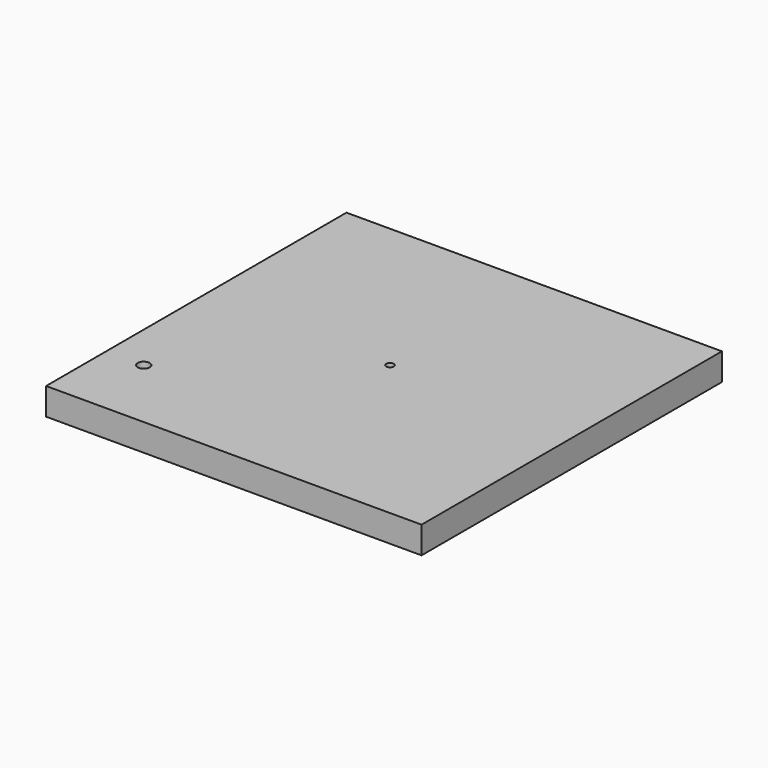
from build123d import *

# Parameters (mm, degrees)
SKETCH_W   = 250
SKETCH_H   = 250
SKETCH_R   = 2.5
SKETCH_R_2 = 4
PAD_DEPTH  = 18


with BuildPart() as part:
    # Sketch → Pad (new body)
    with BuildSketch(Plane.XY):
        with Locations((0, 125)):
            Rectangle(SKETCH_W, SKETCH_H)
        with Locations((0, 130)):
            Circle(SKETCH_R, mode=Mode.SUBTRACT)
        with Locations((-100, 50)):
            Circle(SKETCH_R_2, mode=Mode.SUBTRACT)
    extrude(amount=PAD_DEPTH)


solid = part.part
